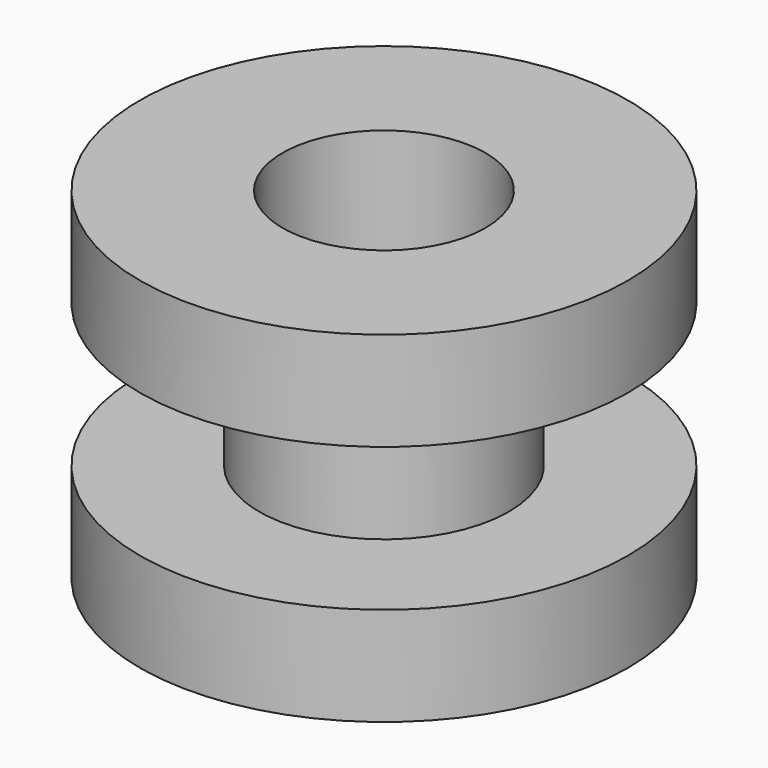
from build123d import *

# Parameters (mm, degrees)
F0_R     = 4.064
F0_R_2   = 3.302
F1_DEPTH = 5.54482
F0_R_3   = 7.9375
F2_DEPTH = 3.2131


with BuildPart() as f1:
    # F0 (on Top) → F1 (new body)
    with BuildSketch(Plane.XY):
        Circle(F0_R)
        Circle(F0_R_2, mode=Mode.SUBTRACT)
    extrude(amount=F1_DEPTH)

    # F0 (on Top) → F2 (join)
    with BuildSketch(Plane.XY):
        Circle(F0_R_3)
        Circle(F0_R, mode=Mode.SUBTRACT)
    extrude(amount=F2_DEPTH)

    # F3: F1 across face


with BuildPart() as f1_1:
    add(f1.part)
    add(f1.part.mirror(Plane.XY.offset(5.54482)))


solid = f1_1.part
